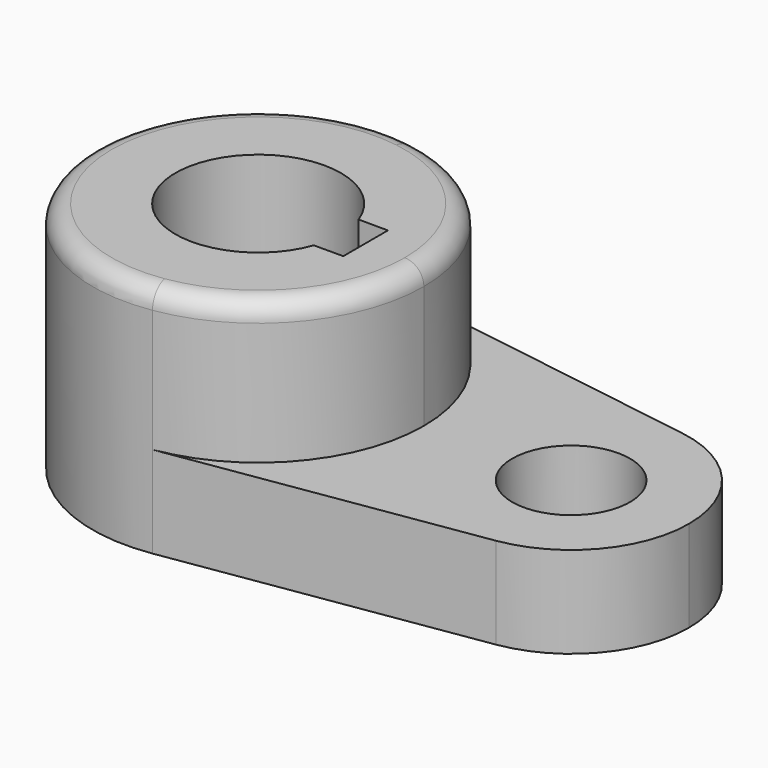
from build123d import *

# Parameters (mm, degrees)
F1_DEPTH = 15.7734
F2_DEPTH = 40.2336
F3_R     = 3.302


with BuildPart() as f1:
    # F0 (on Top) → F1 (new body)
    with BuildSketch(Plane.XY):
        with BuildLine():
            ThreePointArc((4.370294, 28.238824), (21.695757, 18.596363), (28.575, 0))
            Line((28.575, 0), (33.655, 0))
            ThreePointArc((33.655, 0), (40.750919, 15.428094), (57.082765, 20.080941))
            Line((57.082765, 20.080941), (4.370294, 28.238824))
        make_face()
        with BuildLine():
            Line((33.655, 0), (28.575, 0))
            ThreePointArc((28.575, 0), (21.695757, -18.596363), (4.370294, -28.238824))
            Line((4.370294, -28.238824), (57.082765, -20.080941))
            ThreePointArc((57.082765, -20.080941), (40.750919, -15.428094), (33.655, 0))
        make_face()
        with BuildLine():
            ThreePointArc((57.082765, 20.080941), (40.750919, 15.428094), (33.655, 0))
            ThreePointArc((33.655, 0), (40.750919, -15.428094), (57.082765, -20.080941))
            ThreePointArc((57.082765, -20.080941), (69.403094, -13.224081), (74.295, 0))
            ThreePointArc((74.295, 0), (69.403094, 13.224081), (57.082765, 20.080941))
        make_face()
        with BuildLine():
            ThreePointArc((64.135, 0), (53.975, -10.16), (43.815, 0))
            ThreePointArc((43.815, 0), (53.975, 10.16), (64.135, 0))
        make_face(mode=Mode.SUBTRACT)
    extrude(amount=F1_DEPTH)

    # F0 (on Top) → F2 (join)
    with BuildSketch(Plane.XY):
        with BuildLine():
            ThreePointArc((4.370294, -28.238824), (21.695757, -18.596363), (28.575, 0))
            ThreePointArc((28.575, 0), (21.695757, 18.596363), (4.370294, 28.238824))
            ThreePointArc((4.370294, 28.238824), (-28.575, 0), (4.370294, -28.238824))
        make_face()
        with BuildLine():
            ThreePointArc((13.447765, -4.826), (-14.2875, 0), (13.447765, 4.826))
            Line((13.447765, 4.826), (18.5293, 4.807771))
            Line((18.5293, 4.807771), (18.5293, 0))
            Line((18.5293, 0), (18.5293, -4.807771))
            Line((18.5293, -4.807771), (13.447765, -4.826))
        make_face(mode=Mode.SUBTRACT)
    extrude(amount=F2_DEPTH)

    # F3
    f3_edges = [f1.edges().sort_by_distance(p)[0] for p in [
        (-4.370294, 28.238824, 40.2336),
    ]]
    fillet(f3_edges, radius=F3_R)


solid = f1.part
